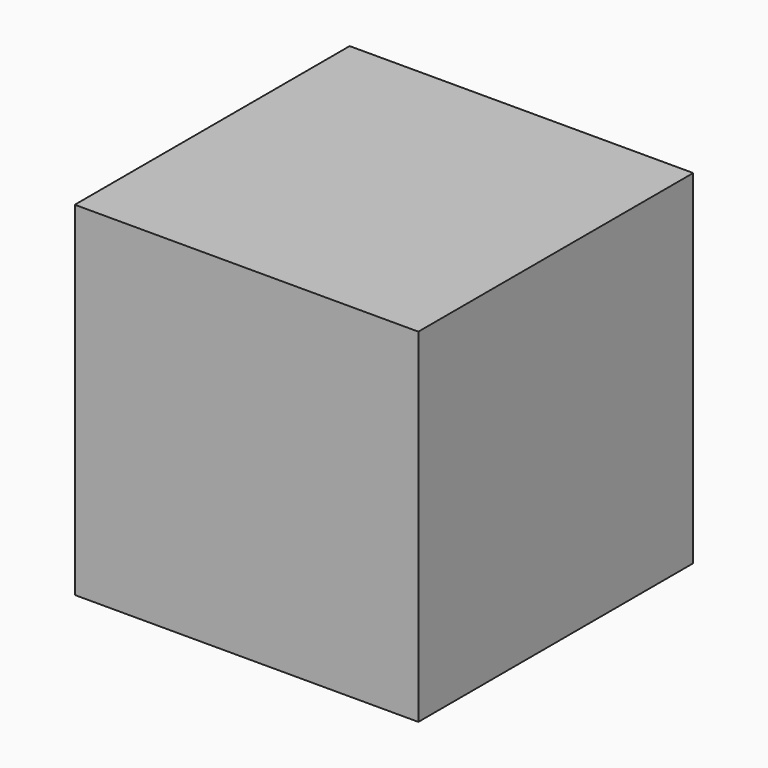
from build123d import *

# Parameters (mm, degrees)
F0_W     = 200
F0_H     = 200
F1_DEPTH = 100


with BuildPart() as f1:
    # F0 (on Front) → F1 (new body, symmetric)
    with BuildSketch(Plane.XZ):
        Rectangle(F0_W, F0_H)
    extrude(amount=F1_DEPTH, both=True)


with BuildPart() as f3:
    # F2 (on Front) → F3 (revolve)
    with BuildSketch(Plane.XZ):
        with BuildLine():
            ThreePointArc((-9.9559084112, 68.8824688491), (-5.1734242216, 70.9818792126), (0, 71.6997654993))
            Line((0, 71.6997654993), (0, 75))
            add(Edge.make_bspline(
                [(0, 75), (-7.186499486, 75), (-7.1906589971, 71.0208649593), (-9.9559084112, 68.8824688491)],
                knots=[0, 0, 0, 0, 11.6171475955, 11.6171475955, 11.6171475955, 11.6171475955], degree=3))
        make_face()
        with BuildLine():
            Line((0, 71.6997654993), (0, 33.6997654993))
            ThreePointArc((-3.19e-08, 33.6997654993), (13.4350288313, 39.2647366455), (19, 52.6997654993))
            ThreePointArc((19, 52.6997654993), (13.4350288425, 66.1347943419), (0, 71.6997654993))
        make_face()
        with BuildLine():
            ThreePointArc((-13.8958529579, 29.2102891312), (-7.301543131, 32.5495435493), (-3.19e-08, 33.6997654993))
            ThreePointArc((-3.19e-08, 33.6997654993), (-7.114861809, 35.0821963867), (-13.1943757294, 39.02831901))
            ThreePointArc((-13.1943757294, 39.02831901), (-11.7445913157, 36.9198937971), (-11.2342640552, 34.4125250942))
            ThreePointArc((-11.2342640552, 34.4125250942), (-11.93829514, 31.4907399164), (-13.8958529579, 29.2102891312))
        make_face()
        with BuildLine():
            ThreePointArc((-15.303092433, -8.2127745759), (-8.1456176349, -12.3596812295), (-6.3e-09, -13.8002345007))
            Line((0, -13.8002345007), (0, 33.6997654993))
            ThreePointArc((-3.19e-08, 33.6997654993), (-7.301543131, 32.5495435493), (-13.8958529579, 29.2102891312))
            ThreePointArc((-13.8958529579, 29.2102891312), (-23.7332262302, 10.8422186957), (-15.303092433, -8.2127745759))
        make_face()
        with BuildLine():
            ThreePointArc((-15.8736342354, -18.6300478482), (-8.2960737854, -15.0344104759), (-6.3e-09, -13.8002345007))
            ThreePointArc((-6.3e-09, -13.8002345007), (-8.1456176349, -12.3596812295), (-15.303092433, -8.2127745759))
            ThreePointArc((-15.303092433, -8.2127745759), (-13.5896258763, -10.4528583755), (-12.9806038491, -13.2065895245))
            ThreePointArc((-12.9806038491, -13.2065895245), (-13.7490793671, -16.2800047667), (-15.8736342354, -18.6300478482))
        make_face()
        with BuildLine():
            ThreePointArc((-23.7413024203, -58.0673064985), (-13.4701233859, -67.416081609), (0, -70.8002345007))
            Line((0, -70.8002345007), (0, -13.8002345007))
            ThreePointArc((-6.3e-09, -13.8002345007), (-8.2960737854, -15.0344104759), (-15.8736342354, -18.6300478482))
            ThreePointArc((-15.8736342354, -18.6300478482), (-27.9492422799, -36.7244066717), (-23.7413024203, -58.0673064985))
        make_face()
        with BuildLine():
            Line((-31.75, -75), (0, -75))
            Line((0, -75), (0, -70.8002345007))
            ThreePointArc((0, -70.8002345007), (-13.4701233859, -67.416081609), (-23.7413024203, -58.0673064985))
            ThreePointArc((-23.7413024203, -58.0673064985), (-23.2776247113, -67.9299438451), (-31.75, -73))
            Line((-31.75, -73), (-31.75, -75))
        make_face()
    revolve(axis=Axis((0, 0, 0), (0, 0, 1)))


solid = Compound([f1.part, f3.part])
